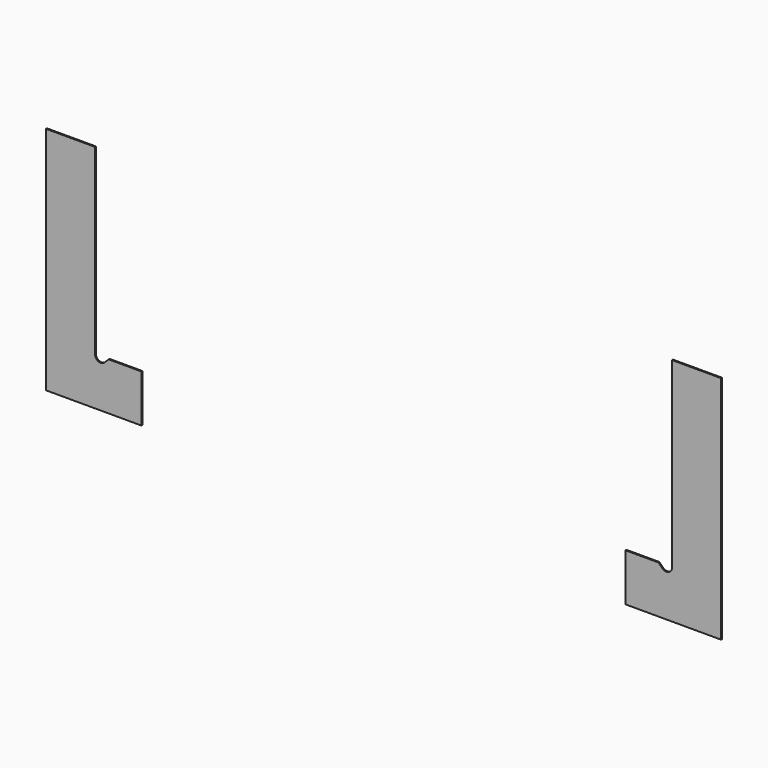
from build123d import *

# Parameters (mm, degrees)
F1_DEPTH = 2.54


with BuildPart() as f1:
    # F0 (on Front) → F1 (new body)
    with BuildSketch(Plane.XZ):
        with BuildLine():
            Line((-623.389488, 107.95), (-632.369744, 98.969744))
            ThreePointArc((-632.369744, 98.969744), (-646.21008, 96.21673), (-654.05, 107.95))
            Line((-654.05, 107.95), (-654.05, 521.97))
            Line((-654.05, 521.97), (-710.529685, 521.97))
            Line((-710.529685, 521.97), (-765.175, 521.97))
            Line((-765.175, 521.97), (-765.175, 0))
            Line((-765.175, 0), (-548.767, 0))
            Line((-548.767, 0), (-548.767, 107.95))
            Line((-548.767, 107.95), (-623.389488, 107.95))
        make_face()
        with BuildLine():
            Line((765.175, 0), (765.175, 521.97))
            Line((765.175, 521.97), (710.529685, 521.97))
            Line((710.529685, 521.97), (654.05, 521.97))
            Line((654.05, 521.97), (654.05, 107.95))
            ThreePointArc((654.05, 107.95), (646.21008, 96.21673), (632.369744, 98.969744))
            Line((632.369744, 98.969744), (623.389488, 107.95))
            Line((623.389488, 107.95), (548.767, 107.95))
            Line((548.767, 107.95), (548.767, 0))
            Line((548.767, 0), (765.175, 0))
        make_face()
    extrude(amount=F1_DEPTH)


solid = f1.part
